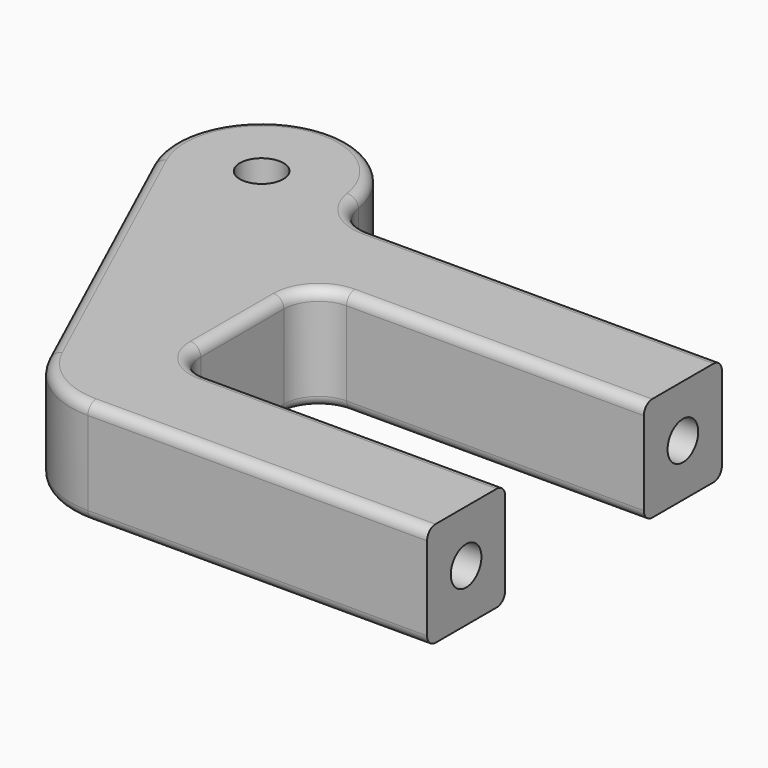
from build123d import *

# Parameters (mm, degrees)
F0_R     = 1.5875
F1_DEPTH = 7.62
F3_D     = 2.794
F3_DEPTH = 12.7
F3_TIP   = 0.8394022848
F5_D     = 2.794
F5_DEPTH = 12.7
F5_TIP   = 0.8394022848
F6_R     = 0.762
F7_R     = 0.762
F8_R     = 0.762


with BuildPart() as f1:
    # F0 (on Top) → F1 (new body)
    with BuildSketch(Plane.XY):
        with BuildLine():
            Line((-9.448561807, 27.6597626507), (-34.9631788839, 27.6597626507))
            ThreePointArc((-34.9631788839, 27.6597626507), (-37.027335895, 28.4223197326), (-38.0999731916, 30.3436959841))
            ThreePointArc((-38.0999731916, 30.3436959841), (-46.2053087095, 35.44162871), (-50.1456144211, 26.7146949509))
            Line((-50.1456144211, 26.7146949509), (-39.9539826805, 4.4896949509))
            ThreePointArc((-39.9539826805, 4.4896949509), (-37.6108431672, 1.7919340437), (-34.1819300664, 0.7865626507))
            Line((-34.1819300664, 0.7865626507), (-9.448561807, 0.7865626507))
            Line((-9.448561807, 0.7865626507), (-9.448561807, 7.8985626507))
            Line((-9.448561807, 7.8985626507), (-31.1296553504, 7.8985626507))
            ThreePointArc((-31.1296553504, 7.8985626507), (-32.9257065746, 8.6425114265), (-33.6696553504, 10.4385626507))
            Line((-33.6696553504, 10.4385626507), (-33.6696553504, 18.0077626507))
            ThreePointArc((-33.6696553504, 18.0077626507), (-32.9257065746, 19.8038138749), (-31.1296553504, 20.5477626507))
            Line((-31.1296553504, 20.5477626507), (-9.448561807, 20.5477626507))
            Line((-9.448561807, 20.5477626507), (-9.448561807, 27.6597626507))
        make_face()
        with Locations((-44.373561807, 29.3615626507)):
            Circle(F0_R, mode=Mode.SUBTRACT)
    extrude(amount=F1_DEPTH)

    # F3
    with Locations(Plane.YZ.offset(-9.448561807)):
        with Locations((24.1037626507, 3.81)):
            Hole(F3_D / 2, depth=F3_DEPTH)
            with Locations((0, 0, -(F3_DEPTH + F3_TIP / 2))):  # 118° drill point
                Cone(0, F3_D / 2, F3_TIP, mode=Mode.SUBTRACT)

    # F5
    with Locations(Plane.YZ.offset(-9.448561807)):
        with Locations((4.3425626507, 3.81)):
            Hole(F5_D / 2, depth=F5_DEPTH)
            with Locations((0, 0, -(F5_DEPTH + F5_TIP / 2))):  # 118° drill point
                Cone(0, F5_D / 2, F5_TIP, mode=Mode.SUBTRACT)

    # F6
    f6_edges = [f1.edges().sort_by_distance(p)[0] for p in [
        (-22.20587, 27.659763, 7.62),
    ]]
    fillet(f6_edges, radius=F6_R)

    # F7
    f7_edges = [f1.edges().sort_by_distance(p)[0] for p in [
        (-33.669655, 14.223163, 7.62),
    ]]
    fillet(f7_edges, radius=F7_R)

    # F8
    f8_edges = [f1.edges().sort_by_distance(p)[0] for p in [
        (-46.205309, 35.441629, 0),
        (-33.669655, 14.223163, 0),
    ]]
    fillet(f8_edges, radius=F8_R)


solid = f1.part
